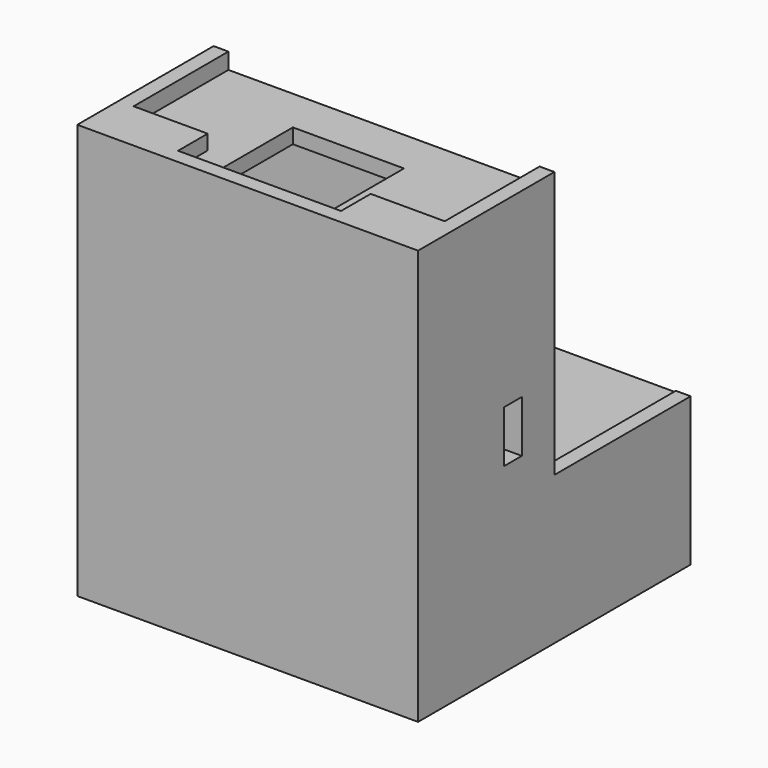
from build123d import *

# Parameters (mm, degrees)
SKETCH_W        = 46
SKETCH_H        = 56
PAD_DEPTH       = 46
SKETCH001_W     = 46
SKETCH001_H     = 36
POCKET_DEPTH    = 23
SKETCH002_W     = 42
SKETCH002_H     = 41.864729
POCKET001_DEPTH = 54
SKETCH003_W     = 10
SKETCH003_H     = 2
PAD001_DEPTH    = 5
SKETCH004_W     = 10
SKETCH004_H     = 2
PAD002_DEPTH    = 5
PAD003_DEPTH    = 5
PAD004_DEPTH    = 10
PAD005_DEPTH    = 10
SKETCH007_W     = 14
SKETCH007_H     = 2.135271
POCKET002_DEPTH = 18
SKETCH008_W     = 10
SKETCH008_H     = 10
PAD006_DEPTH    = 10
SKETCH009_W     = 10
SKETCH009_H     = 10
PAD007_DEPTH    = 10
SKETCH010_W     = 7
SKETCH010_H     = 3
POCKET003_DEPTH = 10
SKETCH011_W     = 7
SKETCH011_H     = 3
POCKET004_DEPTH = 10
SKETCH012_R     = 1.625
POCKET005_DEPTH = 10
PAD008_DEPTH    = 10
PAD009_DEPTH    = 10
SKETCH019_W     = 14
SKETCH019_H     = 2
POCKET009_DEPTH = 3
SKETCH015_W     = 42
SKETCH015_H     = 52
PAD010_DEPTH    = 44
SKETCH016_W     = 42
SKETCH016_H     = 50
POCKET006_DEPTH = 19
SKETCH017_W     = 42
SKETCH017_H     = 23
POCKET007_DEPTH = 34
POCKET008_DEPTH = 2
SKETCH020_W     = 42
SKETCH020_H     = 16
POCKET010_DEPTH = 23
SKETCH021_R     = 1.625
POCKET011_DEPTH = 5
SKETCH022_W     = 15
SKETCH022_H     = 15
POCKET012_DEPTH = 5


with BuildPart() as main_body:
    # Sketch → Pad (new body)
    with BuildSketch(Plane.XZ):
        Rectangle(SKETCH_W, SKETCH_H)
    extrude(amount=PAD_DEPTH)

    # Sketch001 (on Face5 of Pad) → Pocket (cut)
    with BuildSketch(Plane(origin=(0, 0, 0), x_dir=(1, 0, 0), z_dir=(0, 1, 0))):
        with Locations((0, -10)):
            Rectangle(SKETCH001_W, SKETCH001_H)
    extrude(amount=-POCKET_DEPTH, mode=Mode.SUBTRACT)

    # Sketch002 (on Face7 of Pocket) → Pocket001 (cut)
    with BuildSketch(Plane(origin=(0, 0, 28), x_dir=(-1, 0, 0), z_dir=(0, 0, 1))):
        with Locations((0, 23.0676355)):
            Rectangle(SKETCH002_W, SKETCH002_H)
    extrude(amount=-POCKET001_DEPTH, mode=Mode.SUBTRACT)

    # Sketch003 (on Face13 of Pocket001) → Pad001 (join)
    with BuildSketch(Plane(origin=(0, -44, 0), x_dir=(1, 0, 0), z_dir=(0, 1, 0))):
        with Locations((-16, -27)):
            Rectangle(SKETCH003_W, SKETCH003_H)
        with Locations((16, -27)):
            Rectangle(SKETCH003_W, SKETCH003_H)
    extrude(amount=PAD001_DEPTH)

    # Sketch004 (on Face12 of Pad001) → Pad002 (join)
    with BuildSketch(Plane(origin=(0, -44, 0), x_dir=(1, 0, 0), z_dir=(0, 1, 0))):
        with Locations((-16, -23)):
            Rectangle(SKETCH004_W, SKETCH004_H)
        with Locations((16, -23)):
            Rectangle(SKETCH004_W, SKETCH004_H)
    extrude(amount=PAD002_DEPTH)

    # Sketch004 (on Face12 of Pad001) → Pad003 (join)
    with BuildSketch(Plane(origin=(0, -44, 0), x_dir=(1, 0, 0), z_dir=(0, 1, 0))):
        with Locations((-16, -23)):
            Rectangle(SKETCH004_W, SKETCH004_H)
        with Locations((16, -23)):
            Rectangle(SKETCH004_W, SKETCH004_H)
    extrude(amount=PAD003_DEPTH)

    # Sketch005 (on Face8 of Pad003) → Pad004 (join)
    with BuildSketch(Plane(origin=(-21, 0, 0), x_dir=(0, 0, 1), z_dir=(1, 0, 0))):
        Polygon((22, 39), (17, 44), (22, 44), align=None)
    extrude(amount=PAD004_DEPTH)

    # Sketch006 (on Face10 of Pad004) → Pad005 (join)
    with BuildSketch(Plane(origin=(21, 0, 0), x_dir=(0, 0, -1), z_dir=(-1, 0, 0))):
        Polygon((-17.0000000001, 44), (-22, 44), (-22, 39), align=None)
    extrude(amount=PAD005_DEPTH)

    # Sketch007 (on Face3 of Pad005) → Pocket002 (cut)
    with BuildSketch(Plane(origin=(0, 0, -8), x_dir=(-1, 0, 0), z_dir=(0, 0, 1))):
        with Locations((0, 1.0676355)):
            Rectangle(SKETCH007_W, SKETCH007_H)
    extrude(amount=-POCKET002_DEPTH, mode=Mode.SUBTRACT)

    # Sketch008 (on Face15 of Pocket002) → Pad006 (join)
    with BuildSketch(Plane(origin=(21, 0, 0), x_dir=(0, 0, -1), z_dir=(-1, 0, 0))):
        with Locations((0, 30)):
            Rectangle(SKETCH008_W, SKETCH008_H)
    extrude(amount=PAD006_DEPTH)

    # Sketch009 (on Face8 of Pad006) → Pad007 (join)
    with BuildSketch(Plane(origin=(-21, 0, 0), x_dir=(0, 0, 1), z_dir=(1, 0, 0))):
        with Locations((0, 30)):
            Rectangle(SKETCH009_W, SKETCH009_H)
    extrude(amount=PAD007_DEPTH)

    # Sketch010 (on Face1 of Pad007) → Pocket003 (cut)
    with BuildSketch(Plane(origin=(-23, 0, 0), x_dir=(0, 0, -1), z_dir=(-1, 0, 0))):
        with Locations((0, 30)):
            Rectangle(SKETCH010_W, SKETCH010_H)
    extrude(amount=-POCKET003_DEPTH, mode=Mode.SUBTRACT)

    # Sketch011 (on Face13 of Pocket003) → Pocket004 (cut)
    with BuildSketch(Plane(origin=(23, 0, 0), x_dir=(0, 0, 1), z_dir=(1, 0, 0))):
        with Locations((0, 30)):
            Rectangle(SKETCH011_W, SKETCH011_H)
    extrude(amount=-POCKET004_DEPTH, mode=Mode.SUBTRACT)

    # Sketch012 (on Face34 of Pocket004) → Pocket005 (cut)
    with BuildSketch(Plane(origin=(0, -25, 0), x_dir=(1, 0, 0), z_dir=(0, 1, 0))):
        with Locations((-16, 0)):
            Circle(SKETCH012_R)
        with Locations((16, 0)):
            Circle(SKETCH012_R)
    extrude(amount=-POCKET005_DEPTH, mode=Mode.SUBTRACT)

    # Sketch013 (on Face49 of Pocket005) → Pad008 (join)
    with BuildSketch(Plane(origin=(0, -25, 0), x_dir=(1, 0, 0), z_dir=(0, 1, 0))):
        Polygon((21, 5), (21, 15), (11, 5), align=None)
    extrude(amount=-PAD008_DEPTH)

    # Sketch014 (on Face36 of Pad008) → Pad009 (join)
    with BuildSketch(Plane(origin=(0, -25, 0), x_dir=(1, 0, 0), z_dir=(0, 1, 0))):
        Polygon((-21, 5), (-21, 15), (-11, 5), align=None)
    extrude(amount=-PAD009_DEPTH)

    # Sketch019 (on Face6 of Pad009) → Pocket009 (cut)
    with BuildSketch(Plane(origin=(0, 0, 0), x_dir=(1, 0, 0), z_dir=(0, 1, 0))):
        with Locations((14, 9)):
            Rectangle(SKETCH019_W, SKETCH019_H)
        with Locations((-14, 9)):
            Rectangle(SKETCH019_W, SKETCH019_H)
    extrude(amount=-POCKET009_DEPTH, mode=Mode.SUBTRACT)


with BuildPart() as body:
    # Sketch015 → Pad010 (new body)
    with BuildSketch(Plane.XZ):
        with Locations((0, -0.1812561845)):
            Rectangle(SKETCH015_W, SKETCH015_H)
    extrude(amount=PAD010_DEPTH)

    # Sketch016 (on Face6 of Pad010) → Pocket006 (cut)
    with BuildSketch(Plane.XZ.offset(44)):
        with Locations((0, -1.1812561845)):
            Rectangle(SKETCH016_W, SKETCH016_H)
    extrude(amount=-POCKET006_DEPTH, mode=Mode.SUBTRACT)

    # Sketch017 (on Face6 of Pocket006) → Pocket007 (cut)
    with BuildSketch(Plane(origin=(0, 0, 25.8187438155), x_dir=(-1, 0, 0), z_dir=(0, 0, 1))):
        with Locations((0, 11.5)):
            Rectangle(SKETCH017_W, SKETCH017_H)
    extrude(amount=-POCKET007_DEPTH, mode=Mode.SUBTRACT)

    # Sketch018 (on Face2 of Pocket007) → Pocket008 (cut)
    with BuildSketch(Plane(origin=(0, 0, 0), x_dir=(1, 0, 0), z_dir=(0, 1, 0))):
        Polygon((-21, 10.1812561845), (-21, 26.1812561845), (-7.015497, 26.1812561845), (6.993247, 26.1812561845), (21, 26.1812561845), (21, 10.1812561845), align=None)
    extrude(amount=-POCKET008_DEPTH, mode=Mode.SUBTRACT)

    # Sketch020 (on Face2 of Pocket008) → Pocket010 (cut)
    with BuildSketch(Plane(origin=(0, -2, 0), x_dir=(1, 0, 0), z_dir=(0, 1, 0))):
        with Locations((0, 18.181256)):
            Rectangle(SKETCH020_W, SKETCH020_H)
    extrude(amount=-POCKET010_DEPTH, mode=Mode.SUBTRACT)

    # Sketch021 (on Face5 of Pocket010) → Pocket011 (cut)
    with BuildSketch(Plane(origin=(0, -23, 0), x_dir=(1, 0, 0), z_dir=(0, 1, 0))):
        with Locations((16, 0)):
            Circle(SKETCH021_R)
        with Locations((-16, 0)):
            Circle(SKETCH021_R)
    extrude(amount=-POCKET011_DEPTH, mode=Mode.SUBTRACT)

    # Sketch022 (on Face5 of Pocket011) → Pocket012 (cut)
    with BuildSketch(Plane(origin=(0, 0, 25.8187438155), x_dir=(-1, 0, 0), z_dir=(0, 0, 1))):
        with Locations((0, 36.5)):
            Rectangle(SKETCH022_W, SKETCH022_H)
    extrude(amount=-POCKET012_DEPTH, mode=Mode.SUBTRACT)


solid = Compound([main_body.part, body.part])
